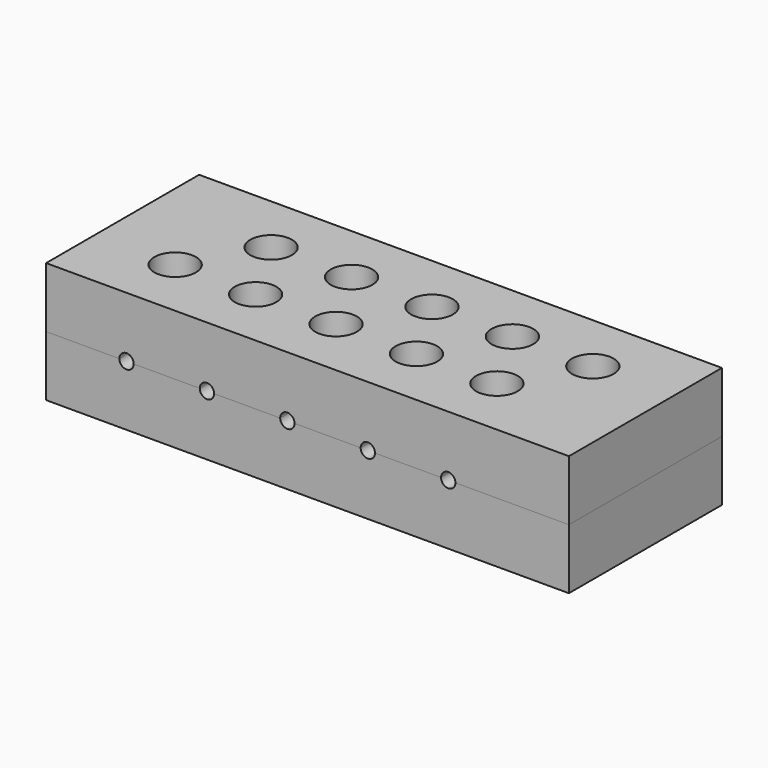
from build123d import *

# Parameters (mm, degrees)
F2_W     = 36.4
F2_H     = 13.3160652761
F2_R     = 1.45
F3_DEPTH = 4.2
F5_START = 2
F5_DEPTH = 2.2
F6_R     = 0.5
F7_DEPTH = 4.2331615075
F8_DEPTH = 9.0829037687


with BuildPart() as f3:
    # F2 (on Top) → F3 (new body)
    with BuildSketch(Plane.XY):
        with Locations((12.6, 2.4248711306)):
            Rectangle(F2_W, F2_H)
        Polygon((0, -3.2331615075), (-2.8, -1.6165807537), (-2.8, 1.6165807537), (0, 3.2331615075), (0, 6.4663230149), (2.8, 8.0829037687), (5.6, 6.4663230149), (8.4, 8.0829037687), (11.2, 6.4663230149), (14, 8.0829037687), (16.8, 6.4663230149), (19.6, 8.0829037687), (22.4, 6.4663230149), (25.2, 8.0829037687), (28, 6.4663230149), (28, 3.2331615075), (25.2, 1.6165807537), (25.2, -1.6165807537), (22.4, -3.2331615075), (19.6, -1.6165807537), (16.8, -3.2331615075), (14, -1.6165807537), (11.2, -3.2331615075), (8.4, -1.6165807537), (5.6, -3.2331615075), (2.8, -1.6165807537), align=None, mode=Mode.SUBTRACT)
        Polygon((19.6, 1.6165807537), (19.6, -1.6165807537), (22.4, -3.2331615075), (25.2, -1.6165807537), (25.2, 1.6165807537), (22.4, 3.2331615075), align=None)
        with Locations((22.4, 0)):
            Circle(F2_R, mode=Mode.SUBTRACT)
        Polygon((22.4, 6.4663230149), (22.4, 3.2331615075), (25.2, 1.6165807537), (28, 3.2331615075), (28, 6.4663230149), (25.2, 8.0829037687), align=None)
        with Locations((25.2, 4.8497422612)):
            Circle(F2_R, mode=Mode.SUBTRACT)
        Polygon((16.8, 6.4663230149), (16.8, 3.2331615075), (19.6, 1.6165807537), (22.4, 3.2331615075), (22.4, 6.4663230149), (19.6, 8.0829037687), align=None)
        with Locations((19.6, 4.8497422612)):
            Circle(F2_R, mode=Mode.SUBTRACT)
        Polygon((0, 6.4663230149), (0, 3.2331615075), (2.8, 1.6165807537), (5.6, 3.2331615075), (5.6, 6.4663230149), (2.8, 8.0829037687), align=None)
        with Locations((2.8, 4.8497422612)):
            Circle(F2_R, mode=Mode.SUBTRACT)
        Polygon((-2.8, 1.6165807537), (-2.8, -1.6165807537), (0, -3.2331615075), (2.8, -1.6165807537), (2.8, 1.6165807537), (0, 3.2331615075), align=None)
        Circle(F2_R, mode=Mode.SUBTRACT)
        Polygon((2.8, 1.6165807537), (2.8, -1.6165807537), (5.6, -3.2331615075), (8.4, -1.6165807537), (8.4, 1.6165807537), (5.6, 3.2331615075), align=None)
        with Locations((5.6, 0)):
            Circle(F2_R, mode=Mode.SUBTRACT)
        Polygon((5.6, 6.4663230149), (5.6, 3.2331615075), (8.4, 1.6165807537), (11.2, 3.2331615075), (11.2, 6.4663230149), (8.4, 8.0829037687), align=None)
        with Locations((8.4, 4.8497422612)):
            Circle(F2_R, mode=Mode.SUBTRACT)
        Polygon((8.4, 1.6165807537), (8.4, -1.6165807537), (11.2, -3.2331615075), (14, -1.6165807537), (14, 1.6165807537), (11.2, 3.2331615075), align=None)
        with Locations((11.2, 0)):
            Circle(F2_R, mode=Mode.SUBTRACT)
        Polygon((11.2, 6.4663230149), (11.2, 3.2331615075), (14, 1.6165807537), (16.8, 3.2331615075), (16.8, 6.4663230149), (14, 8.0829037687), align=None)
        with Locations((14, 4.8497422612)):
            Circle(F2_R, mode=Mode.SUBTRACT)
        Polygon((14, 1.6165807537), (14, -1.6165807537), (16.8, -3.2331615075), (19.6, -1.6165807537), (19.6, 1.6165807537), (16.8, 3.2331615075), align=None)
        with Locations((16.8, 0)):
            Circle(F2_R, mode=Mode.SUBTRACT)
    extrude(amount=F3_DEPTH)


with BuildPart() as f4_1:
    # F4: instance of F3
    add(f3.part.mirror(Plane(origin=(12.6, 2.4248711306, 4.2), x_dir=(1, 0, 0), z_dir=(0, 0, 1))))


with BuildPart() as f3_1:
    add(f3.part)

    # F2 (on Top) → F5 (cut)
    with BuildSketch(Plane.XY.offset(F5_START)):
        Polygon((-2.8, 1.6165807537), (-2.8, -1.6165807537), (0, -3.2331615075), (2.8, -1.6165807537), (2.8, 1.6165807537), (0, 3.2331615075), align=None)
        Circle(F2_R, mode=Mode.SUBTRACT)
        Polygon((0, 6.4663230149), (0, 3.2331615075), (2.8, 1.6165807537), (5.6, 3.2331615075), (5.6, 6.4663230149), (2.8, 8.0829037687), align=None)
        with Locations((2.8, 4.8497422612)):
            Circle(F2_R, mode=Mode.SUBTRACT)
        Polygon((2.8, 1.6165807537), (2.8, -1.6165807537), (5.6, -3.2331615075), (8.4, -1.6165807537), (8.4, 1.6165807537), (5.6, 3.2331615075), align=None)
        with Locations((5.6, 0)):
            Circle(F2_R, mode=Mode.SUBTRACT)
        Polygon((5.6, 6.4663230149), (5.6, 3.2331615075), (8.4, 1.6165807537), (11.2, 3.2331615075), (11.2, 6.4663230149), (8.4, 8.0829037687), align=None)
        with Locations((8.4, 4.8497422612)):
            Circle(F2_R, mode=Mode.SUBTRACT)
        Polygon((8.4, 1.6165807537), (8.4, -1.6165807537), (11.2, -3.2331615075), (14, -1.6165807537), (14, 1.6165807537), (11.2, 3.2331615075), align=None)
        with Locations((11.2, 0)):
            Circle(F2_R, mode=Mode.SUBTRACT)
        Polygon((11.2, 6.4663230149), (11.2, 3.2331615075), (14, 1.6165807537), (16.8, 3.2331615075), (16.8, 6.4663230149), (14, 8.0829037687), align=None)
        with Locations((14, 4.8497422612)):
            Circle(F2_R, mode=Mode.SUBTRACT)
        Polygon((14, 1.6165807537), (14, -1.6165807537), (16.8, -3.2331615075), (19.6, -1.6165807537), (19.6, 1.6165807537), (16.8, 3.2331615075), align=None)
        with Locations((16.8, 0)):
            Circle(F2_R, mode=Mode.SUBTRACT)
        Polygon((16.8, 6.4663230149), (16.8, 3.2331615075), (19.6, 1.6165807537), (22.4, 3.2331615075), (22.4, 6.4663230149), (19.6, 8.0829037687), align=None)
        with Locations((19.6, 4.8497422612)):
            Circle(F2_R, mode=Mode.SUBTRACT)
        Polygon((19.6, 1.6165807537), (19.6, -1.6165807537), (22.4, -3.2331615075), (25.2, -1.6165807537), (25.2, 1.6165807537), (22.4, 3.2331615075), align=None)
        with Locations((22.4, 0)):
            Circle(F2_R, mode=Mode.SUBTRACT)
        Polygon((22.4, 6.4663230149), (22.4, 3.2331615075), (25.2, 1.6165807537), (28, 3.2331615075), (28, 6.4663230149), (25.2, 8.0829037687), align=None)
        with Locations((25.2, 4.8497422612)):
            Circle(F2_R, mode=Mode.SUBTRACT)
    extrude(amount=F5_DEPTH, mode=Mode.SUBTRACT)


with BuildPart() as f7_tool:
    # F6 (on Front) → F7 (new body, through all)
    with BuildSketch(Plane.XZ):
        with Locations((0, 4.2)):
            Circle(F6_R)
        with Locations((5.6, 4.2)):
            Circle(F6_R)
        with Locations((11.2, 4.2)):
            Circle(F6_R)
        with Locations((16.8, 4.2)):
            Circle(F6_R)
        with Locations((22.4, 4.2)):
            Circle(F6_R)
    extrude(amount=F7_DEPTH)


with BuildPart() as f3_2:
    add(f3_1.part)

    # F7: cut by f7_tool
    add(f7_tool.part, mode=Mode.SUBTRACT)


with BuildPart() as f4_1_1:
    add(f4_1.part)

    # F7: cut by f7_tool
    add(f7_tool.part, mode=Mode.SUBTRACT)


with BuildPart() as f8_tool:
    # F6 (on Front) → F8 (new body, through all)
    with BuildSketch(Plane.XZ):
        with Locations((2.8, 4.2)):
            Circle(F6_R)
        with Locations((8.4, 4.2)):
            Circle(F6_R)
        with Locations((14, 4.2)):
            Circle(F6_R)
        with Locations((19.6, 4.2)):
            Circle(F6_R)
        with Locations((25.2, 4.2)):
            Circle(F6_R)
    extrude(amount=-F8_DEPTH)


with BuildPart() as f3_3:
    add(f3_2.part)

    # F8: cut by f8_tool
    add(f8_tool.part, mode=Mode.SUBTRACT)


with BuildPart() as f4_1_2:
    add(f4_1_1.part)

    # F8: cut by f8_tool
    add(f8_tool.part, mode=Mode.SUBTRACT)


solid = Compound([f3_3.part, f4_1_2.part])
